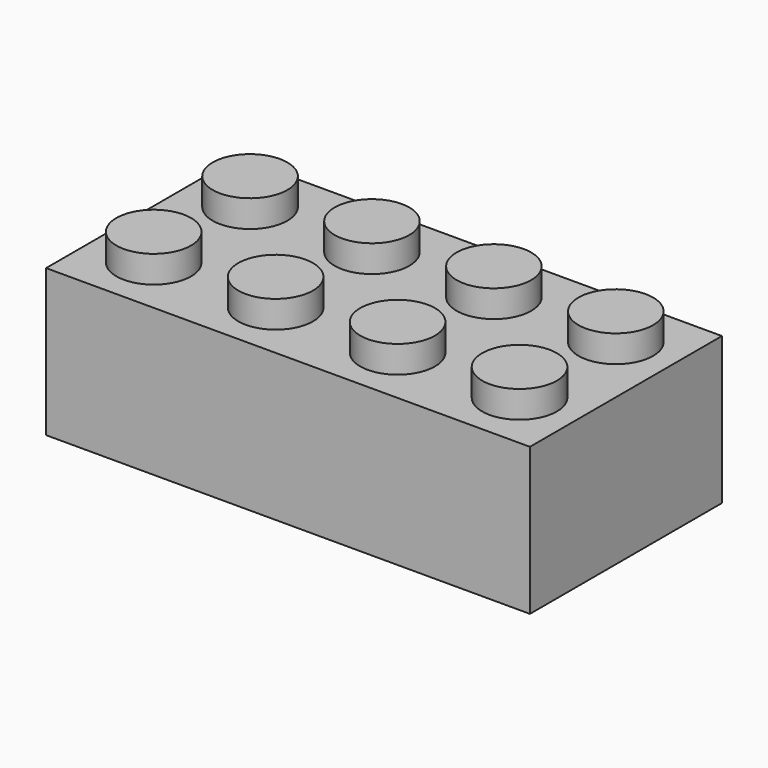
from build123d import *

# Parameters (mm, degrees)
F0_W     = 31.75
F0_H     = 15.748
F1_DEPTH = 9.652
F2_R     = 2.4511
F3_DEPTH = 1.778
F4_W     = 29.21
F4_H     = 13.208
F5_DEPTH = 8.382
F6_R     = 3.2385
F6_R_2   = 2.8575
F7_DEPTH = 8.382


with BuildPart() as f1:
    # F0 (on Top) → F1 (new body)
    with BuildSketch(Plane.XY):
        Rectangle(F0_W, F0_H)
    extrude(amount=F1_DEPTH)

    # F2 (on face) → F3 (join)
    with BuildSketch(Plane.XY.offset(9.652)):
        with Locations((-11.9507, 3.9497)):
            Circle(F2_R)
        with Locations((-3.9497, 3.9497)):
            Circle(F2_R)
        with Locations((4.0513, 3.9497)):
            Circle(F2_R)
        with Locations((12.0523, 3.9497)):
            Circle(F2_R)
        with Locations((-11.9507, -3.9497)):
            Circle(F2_R)
        with Locations((-3.9497, -3.9497)):
            Circle(F2_R)
        with Locations((4.0513, -3.9497)):
            Circle(F2_R)
        with Locations((12.0523, -3.9497)):
            Circle(F2_R)
    extrude(amount=F3_DEPTH)

    # F4 (on face) → F5 (cut)
    with BuildSketch(Plane(origin=(0, 0, 0), x_dir=(1, 0, 0), z_dir=(0, 0, -1))):
        Rectangle(F4_W, F4_H)
    extrude(amount=-F5_DEPTH, mode=Mode.SUBTRACT)

    # F6 (on face) → F7 (join)
    with BuildSketch(Plane(origin=(0, 0, 8.382), x_dir=(1, 0, 0), z_dir=(0, 0, -1))):
        with Locations((-8.89, 0)):
            Circle(F6_R)
        with Locations((-8.89, 0)):
            Circle(F6_R_2, mode=Mode.SUBTRACT)
        Circle(F6_R)
        Circle(F6_R_2, mode=Mode.SUBTRACT)
        with Locations((8.89, 0)):
            Circle(F6_R)
        with Locations((8.89, 0)):
            Circle(F6_R_2, mode=Mode.SUBTRACT)
    extrude(amount=F7_DEPTH)


solid = f1.part
